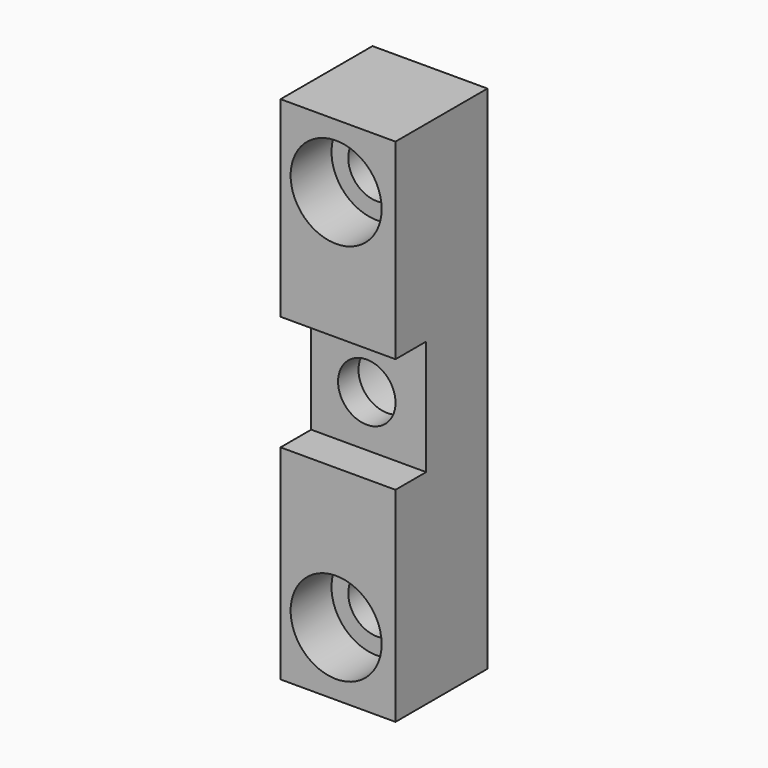
from build123d import *

# Parameters (mm, degrees)
F0_W           = 18
F0_H           = 80
F1_DEPTH       = 18
F3_D           = 9
F3_DEPTH       = 18.75
F3_CBORE_D     = 14.25
F3_CBORE_DEPTH = 8
F3_TIP         = 2.7038727856
F4_W           = 18
F4_H           = 18
F5_DEPTH       = 6
F7_D           = 9
F7_DEPTH       = 18.75
F7_CBORE_D     = 14.25
F7_CBORE_DEPTH = 8
F7_TIP         = 2.7038727856


with BuildPart() as f1:
    # F0 (on Front) → F1 (new body)
    with BuildSketch(Plane.XZ):
        with Locations((0.2960520796, 4.8042173386)):
            Rectangle(F0_W, F0_H)
    extrude(amount=F1_DEPTH)

    # F3
    with Locations(Plane.XZ.offset(18)):
        with Locations((0, 34.8042173386), (0, -25.1957826614)):
            CounterBoreHole(F3_D / 2, F3_CBORE_D / 2, F3_CBORE_DEPTH, depth=F3_DEPTH)
            with Locations((0, 0, -(F3_DEPTH + F3_TIP / 2))):  # 118° drill point
                Cone(0, F3_D / 2, F3_TIP, mode=Mode.SUBTRACT)

    # F4 (on face) → F5 (cut)
    with BuildSketch(Plane.XZ.offset(18)):
        with Locations((0.2960520796, 5.8042173386)):
            Rectangle(F4_W, F4_H)
    extrude(amount=-F5_DEPTH, mode=Mode.SUBTRACT)

    # F7
    with Locations(Plane(origin=(0, 0, 0), x_dir=(-1, 0, 0), z_dir=(0, 1, 0))):
        with Locations((0, 4.8042173386)):
            CounterBoreHole(F7_D / 2, F7_CBORE_D / 2, F7_CBORE_DEPTH, depth=F7_DEPTH)
            with Locations((0, 0, -(F7_DEPTH + F7_TIP / 2))):  # 118° drill point
                Cone(0, F7_D / 2, F7_TIP, mode=Mode.SUBTRACT)


solid = f1.part
